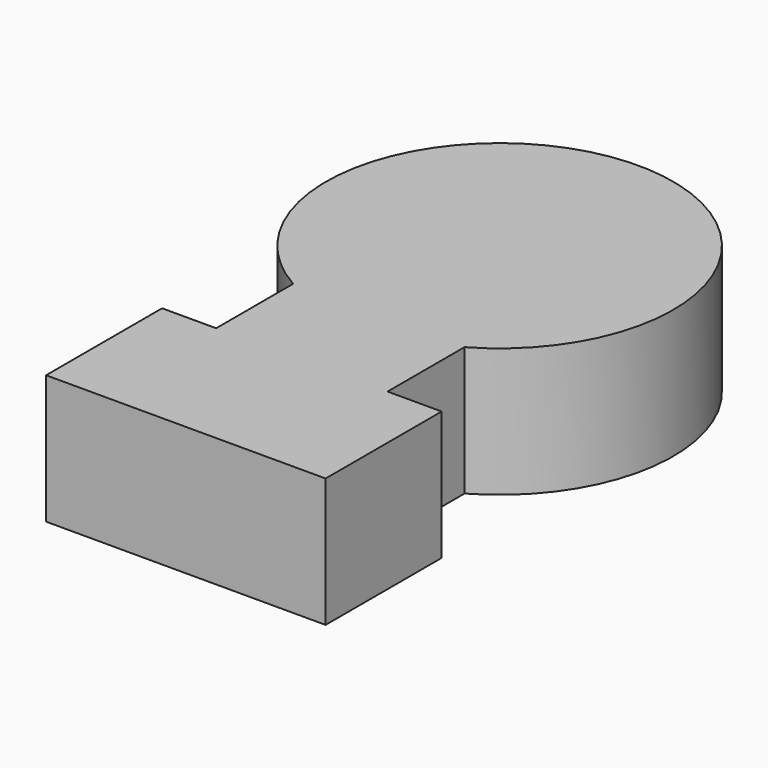
from build123d import *

# Parameters (mm, degrees)
F1_R     = 33.669764
F3_DEPTH = 25
F0_W     = 33.238638
F0_H     = 92.045456
F4_DEPTH = 25
F2_W     = 54.204546
F2_H     = 28.124999
F5_DEPTH = 25


with BuildPart() as f3:
    # F1 (on Top) → F3 (new body)
    with BuildSketch(Plane.XY):
        with Locations((0, 23.139205)):
            Circle(F1_R)
    extrude(amount=F3_DEPTH)

    # F0 (on Top) → F4 (join)
    with BuildSketch(Plane.XY):
        Rectangle(F0_W, F0_H)
    extrude(amount=F4_DEPTH)

    # F2 (on Top) → F5 (join)
    with BuildSketch(Plane.XY):
        with Locations((0, -38.863636)):
            Rectangle(F2_W, F2_H)
    extrude(amount=F5_DEPTH)


solid = f3.part
